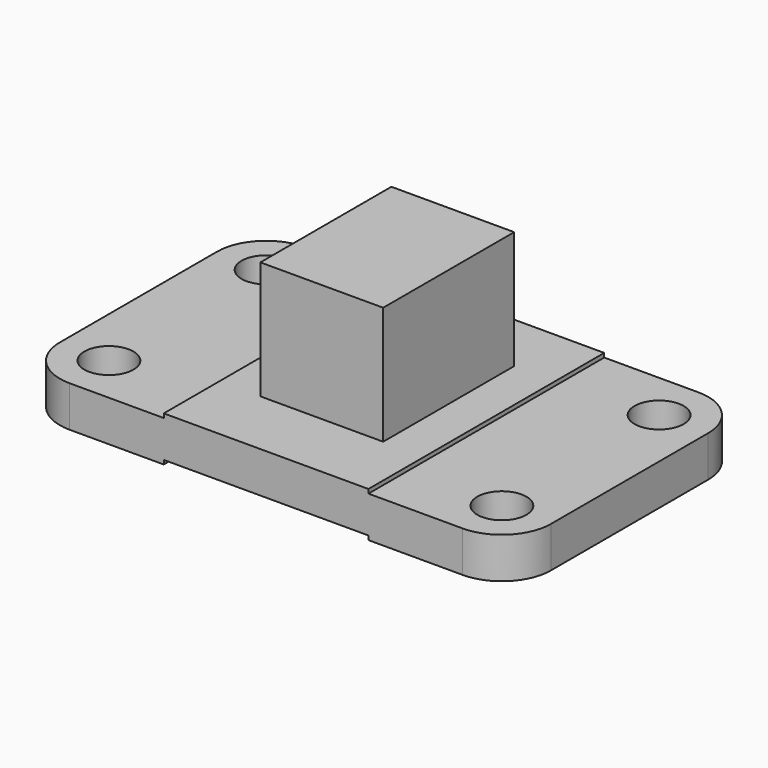
from build123d import *

# Parameters (mm, degrees)
F0_W      = 3048
F0_H      = 1828.8
F1_DEPTH  = 254
F2_W      = 1270
F2_H      = 1828.8
F3_DEPTH  = 25.4
F4_W      = 1270
F4_H      = 1828.8
F5_DEPTH  = 25.4
F6_R      = 304.8
F9_D      = 304.8
F10_W     = 762
F10_H     = 1016
F11_DEPTH = 731.938975


with BuildPart() as f1:
    # F0 (on Top) → F1 (new body)
    with BuildSketch(Plane.XY):
        Rectangle(F0_W, F0_H)
    extrude(amount=F1_DEPTH)

    # F2 (on face) → F3 (join)
    with BuildSketch(Plane.XY.offset(254)):
        Rectangle(F2_W, F2_H)
    extrude(amount=F3_DEPTH)

    # F4 (on face) → F5 (cut)
    with BuildSketch(Plane(origin=(0, 0, 0), x_dir=(1, 0, 0), z_dir=(0, 0, -1))):
        Rectangle(F4_W, F4_H)
    extrude(amount=-F5_DEPTH, mode=Mode.SUBTRACT)

    # F6
    f6_edges = [f1.edges().sort_by_distance(p)[0] for p in [
        (1524, -914.4, 127),
        (1524, 914.4, 127),
        (-1524, -914.4, 127),
        (-1524, 914.4, 127),
    ]]
    fillet(f6_edges, radius=F6_R)

    # F9 (through all)
    with Locations(Plane.XY.offset(254)):
        with Locations((-1219.2, 609.6), (-1219.2, -609.6), (1219.2, 609.6), (1219.2, -609.6)):
            Hole(F9_D / 2)


with BuildPart() as f11:
    # F10 (on face) → F11 (new body)
    with BuildSketch(Plane.XY.offset(279.4)):
        with Locations((0, 25.4)):
            Rectangle(F10_W, F10_H)
    extrude(amount=F11_DEPTH)


solid = Compound([f1.part, f11.part])
